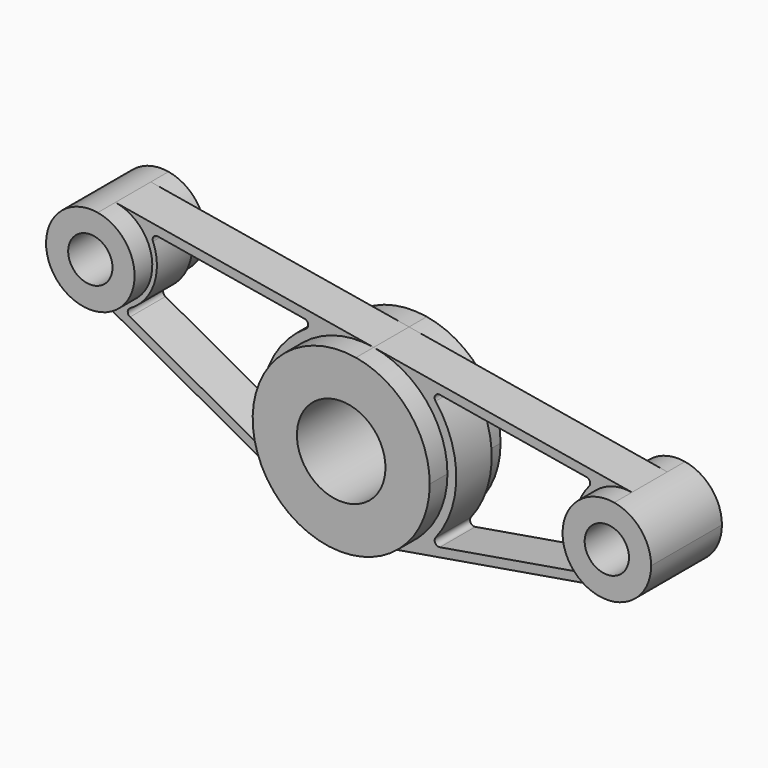
from build123d import *

# Parameters (mm, degrees)
F0_R     = 12.7
F1_DEPTH = 25.4
F0_R_2   = 6.35
F2_DEPTH = 25.4
F3_DEPTH = 6.35
F4_DEPTH = 6.35


with BuildPart() as f1:
    # F0 (on Front) → F1 (new body)
    with BuildSketch(Plane.XZ):
        with BuildLine():
            ThreePointArc((4.2333333333, -25.0447377485), (19.399570442, -16.3956294989), (25.4, 0))
            ThreePointArc((25.4, 0), (19.399570442, 16.3956294989), (4.2333333333, 25.0447377485))
            ThreePointArc((4.2333333333, 25.0447377485), (-23.9888888889, 8.3482459162), (-12.2296296296, -22.2619891097))
            ThreePointArc((-12.2296296296, -22.2619891097), (-4.2333333333, -25.0447377485), (4.2333333333, -25.0447377485))
        make_face()
        Circle(F0_R, mode=Mode.SUBTRACT)
    extrude(amount=F1_DEPTH)


with BuildPart() as f1b:
    # F0 (on Front) → F1, piece 2 (new body)
    with BuildSketch(Plane.XZ):
        with BuildLine():
            ThreePointArc((88.9, 0), (85.899785221, 8.1978147495), (78.3166666667, 12.5223688742))
            ThreePointArc((78.3166666667, 12.5223688742), (63.5, 0), (78.3166666667, -12.5223688742))
            ThreePointArc((78.3166666667, -12.5223688742), (85.899785221, -8.1978147495), (88.9, 0))
        make_face()
        with Locations((76.2, 0)):
            Circle(F0_R_2, mode=Mode.SUBTRACT)
    extrude(amount=F1_DEPTH)


with BuildPart() as f1c:
    # F0 (on Front) → F1, piece 3 (new body)
    with BuildSketch(Plane.XZ):
        with BuildLine():
            ThreePointArc((-59.2666666667, 25.0447377485), (-62.2668814457, 33.2425524979), (-69.85, 37.5671066227))
            ThreePointArc((-69.85, 37.5671066227), (-83.9611111111, 29.2188607065), (-78.0814814815, 13.9137431936))
            ThreePointArc((-78.0814814815, 13.9137431936), (-65.500143186, 14.1143180825), (-59.2666666667, 25.0447377485))
        make_face()
        with Locations((-71.9666666667, 25.0447377485)):
            Circle(F0_R_2, mode=Mode.SUBTRACT)
    extrude(amount=F1_DEPTH)


with BuildPart() as f2:
    # F0 (on Front) → F2 (new body)
    with BuildSketch(Plane.XZ):
        with BuildLine():
            ThreePointArc((4.2333333333, 25.0447377485), (19.399570442, 16.3956294989), (25.4, 0))
            ThreePointArc((25.4, 0), (19.399570442, -16.3956294989), (4.2333333333, -25.0447377485))
            Line((4.2333333333, -25.0447377485), (78.3166666667, -12.5223688742))
            ThreePointArc((78.3166666667, -12.5223688742), (63.5, 0), (78.3166666667, 12.5223688742))
            Line((78.3166666667, 12.5223688742), (4.2333333333, 25.0447377485))
        make_face()
        with BuildLine():
            ThreePointArc((21.9979949155, 17.2259054826), (21.9066318734, 18.6585361887), (23.209570442, 19.2611380738))
            Line((23.209570442, 19.2611380738), (65.296593229, 12.1471327984))
            ThreePointArc((65.296593229, 12.1471327984), (66.281659176, 11.320020659), (66.0391490163, 10.0568269947))
            ThreePointArc((66.0391490163, 10.0568269947), (62.2498184639, 0), (66.0391490163, -10.0568269947))
            ThreePointArc((66.0391490163, -10.0568269947), (66.281659176, -11.320020659), (65.296593229, -12.1471327984))
            Line((65.296593229, -12.1471327984), (23.209570442, -19.2611380738))
            ThreePointArc((23.209570442, -19.2611380738), (21.9066318734, -18.6585361887), (21.9979949155, -17.2259054826))
            ThreePointArc((21.9979949155, -17.2259054826), (27.94, 0), (21.9979949155, 17.2259054826))
        make_face(mode=Mode.SUBTRACT)
    extrude(amount=F2_DEPTH)


with BuildPart() as f2b:
    # F0 (on Front) → F2, piece 2 (new body)
    with BuildSketch(Plane.XZ):
        with BuildLine():
            ThreePointArc((-12.2296296296, -22.2619891097), (-23.9888888889, 8.3482459162), (4.2333333333, 25.0447377485))
            Line((4.2333333333, 25.0447377485), (-69.85, 37.5671066227))
            ThreePointArc((-69.85, 37.5671066227), (-62.2668814457, 33.2425524979), (-59.2666666667, 25.0447377485))
            ThreePointArc((-59.2666666667, 25.0447377485), (-65.500143186, 14.1143180825), (-78.0814814815, 13.9137431936))
            Line((-78.0814814815, 13.9137431936), (-12.2296296296, -22.2619891097))
        make_face()
        with BuildLine():
            ThreePointArc((-65.6756957857, 12.2070453043), (-58.7914952159, 20.4597162509), (-59.0649190228, 31.2032740721))
            ThreePointArc((-59.0649190228, 31.2032740721), (-58.8787811459, 32.4759963913), (-57.676593229, 32.9333951489))
            Line((-57.676593229, 32.9333951489), (-15.589570442, 25.8193898734))
            ThreePointArc((-15.589570442, 25.8193898734), (-14.5570751734, 24.8220276194), (-15.1142267996, 23.4990158996))
            ThreePointArc((-15.1142267996, 23.4990158996), (-26.3877777778, 9.1830705078), (-26.4375413742, -9.0388055676))
            ThreePointArc((-26.4375413742, -9.0388055676), (-26.8221183654, -10.4218740703), (-28.2507292818, -10.5627598216))
            Line((-28.2507292818, -10.5627598216), (-65.6614162035, 9.9888109742))
            ThreePointArc((-65.6614162035, 9.9888109742), (-66.3199084087, 11.0937351466), (-65.6756957857, 12.2070453043))
        make_face(mode=Mode.SUBTRACT)
    extrude(amount=F2_DEPTH)


with BuildPart() as f3_tool:
    # F0 (on Front) → F3 (new body)
    with BuildSketch(Plane.XZ):
        with BuildLine():
            ThreePointArc((4.2333333333, 25.0447377485), (19.399570442, 16.3956294989), (25.4, 0))
            ThreePointArc((25.4, 0), (19.399570442, -16.3956294989), (4.2333333333, -25.0447377485))
            Line((4.2333333333, -25.0447377485), (78.3166666667, -12.5223688742))
            ThreePointArc((78.3166666667, -12.5223688742), (63.5, 0), (78.3166666667, 12.5223688742))
            Line((78.3166666667, 12.5223688742), (4.2333333333, 25.0447377485))
        make_face()
        with BuildLine():
            ThreePointArc((21.9979949155, 17.2259054826), (21.9066318734, 18.6585361887), (23.209570442, 19.2611380738))
            Line((23.209570442, 19.2611380738), (65.296593229, 12.1471327984))
            ThreePointArc((65.296593229, 12.1471327984), (66.281659176, 11.320020659), (66.0391490163, 10.0568269947))
            ThreePointArc((66.0391490163, 10.0568269947), (62.2498184639, 0), (66.0391490163, -10.0568269947))
            ThreePointArc((66.0391490163, -10.0568269947), (66.281659176, -11.320020659), (65.296593229, -12.1471327984))
            Line((65.296593229, -12.1471327984), (23.209570442, -19.2611380738))
            ThreePointArc((23.209570442, -19.2611380738), (21.9066318734, -18.6585361887), (21.9979949155, -17.2259054826))
            ThreePointArc((21.9979949155, -17.2259054826), (27.94, 0), (21.9979949155, 17.2259054826))
        make_face(mode=Mode.SUBTRACT)
        with BuildLine():
            ThreePointArc((-12.2296296296, -22.2619891097), (-23.9888888889, 8.3482459162), (4.2333333333, 25.0447377485))
            Line((4.2333333333, 25.0447377485), (-69.85, 37.5671066227))
            ThreePointArc((-69.85, 37.5671066227), (-62.2668814457, 33.2425524979), (-59.2666666667, 25.0447377485))
            ThreePointArc((-59.2666666667, 25.0447377485), (-65.500143186, 14.1143180825), (-78.0814814815, 13.9137431936))
            Line((-78.0814814815, 13.9137431936), (-12.2296296296, -22.2619891097))
        make_face()
        with BuildLine():
            ThreePointArc((-65.6756957857, 12.2070453043), (-58.7914952159, 20.4597162509), (-59.0649190228, 31.2032740721))
            ThreePointArc((-59.0649190228, 31.2032740721), (-58.8787811459, 32.4759963913), (-57.676593229, 32.9333951489))
            Line((-57.676593229, 32.9333951489), (-15.589570442, 25.8193898734))
            ThreePointArc((-15.589570442, 25.8193898734), (-14.5570751734, 24.8220276194), (-15.1142267996, 23.4990158996))
            ThreePointArc((-15.1142267996, 23.4990158996), (-26.3877777778, 9.1830705078), (-26.4375413742, -9.0388055676))
            ThreePointArc((-26.4375413742, -9.0388055676), (-26.8221183654, -10.4218740703), (-28.2507292818, -10.5627598216))
            Line((-28.2507292818, -10.5627598216), (-65.6614162035, 9.9888109742))
            ThreePointArc((-65.6614162035, 9.9888109742), (-66.3199084087, 11.0937351466), (-65.6756957857, 12.2070453043))
        make_face(mode=Mode.SUBTRACT)
    extrude(amount=F3_DEPTH)


with BuildPart() as f2_1:
    add(f2.part)

    # F3: cut by f3_tool
    add(f3_tool.part, mode=Mode.SUBTRACT)


with BuildPart() as f2b_1:
    add(f2b.part)

    # F3: cut by f3_tool
    add(f3_tool.part, mode=Mode.SUBTRACT)


with BuildPart() as f4_tool:
    # F2_face (on face) → F4 (new body)
    with BuildSketch(Plane(origin=(-37.2218426901, -25.4, 12.9533759429), x_dir=(1, 0, 0), z_dir=(0, -1, 0))):
        with BuildLine():
            ThreePointArc((24.9922130605, -35.2153650526), (13.2329538012, -4.6051300267), (41.4551760235, 12.0913618056))
            Line((41.4551760235, 12.0913618056), (-32.6281573099, 24.6137306798))
            ThreePointArc((-32.6281573099, 24.6137306798), (-22.7503795321, 7.9172388475), (-40.8596387913, 0.9603672507))
            Line((-40.8596387913, 0.9603672507), (24.9922130605, -35.2153650526))
        make_face()
        with BuildLine():
            ThreePointArc((-28.4538530955, -0.7463306385), (-21.5696525258, 7.506340308), (-21.8430763327, 18.2498981293))
            ThreePointArc((-21.8430763327, 18.2498981293), (-21.6569384558, 19.5226204485), (-20.4547505388, 19.980019206))
            Line((-20.4547505388, 19.980019206), (21.6322722482, 12.8660139305))
            ThreePointArc((21.6322722482, 12.8660139305), (22.6647675168, 11.8686516766), (22.1076158906, 10.5456399568))
            ThreePointArc((22.1076158906, 10.5456399568), (10.8340649124, -3.7703054351), (10.784301316, -21.9921815105))
            ThreePointArc((10.784301316, -21.9921815105), (10.3997243248, -23.3752500132), (8.9711134084, -23.5161357645))
            Line((8.9711134084, -23.5161357645), (-28.4395735134, -2.9645649687))
            ThreePointArc((-28.4395735134, -2.9645649687), (-29.0980657186, -1.8596407963), (-28.4538530955, -0.7463306385))
        make_face(mode=Mode.SUBTRACT)
        with BuildLine():
            ThreePointArc((41.4551760235, 12.0913618056), (62.6218426901, -12.9533759429), (41.4551760235, -37.9981136913))
            Line((41.4551760235, -37.9981136913), (115.5385093568, -25.4757448171))
            ThreePointArc((115.5385093568, -25.4757448171), (100.7218426901, -12.9533759429), (115.5385093568, -0.4310070686))
            Line((115.5385093568, -0.4310070686), (41.4551760235, 12.0913618056))
        make_face()
        with BuildLine():
            ThreePointArc((60.4314131321, -32.2145140167), (59.1284745636, -31.6119121316), (59.2198376056, -30.1792814255))
            ThreePointArc((59.2198376056, -30.1792814255), (65.1618426901, -12.9533759429), (59.2198376056, 4.2725295398))
            ThreePointArc((59.2198376056, 4.2725295398), (59.1284745636, 5.7051602458), (60.4314131321, 6.3077621309))
            Line((60.4314131321, 6.3077621309), (102.5184359191, -0.8062431445))
            ThreePointArc((102.5184359191, -0.8062431445), (103.5035018661, -1.6333552839), (103.2609917064, -2.8965489482))
            ThreePointArc((103.2609917064, -2.8965489482), (99.471661154, -12.9533759429), (103.2609917064, -23.0102029376))
            ThreePointArc((103.2609917064, -23.0102029376), (103.5035018661, -24.2733966019), (102.5184359191, -25.1005087412))
            Line((102.5184359191, -25.1005087412), (60.4314131321, -32.2145140167))
        make_face(mode=Mode.SUBTRACT)
    extrude(amount=-F4_DEPTH)


with BuildPart() as f2_2:
    add(f2_1.part)

    # F4: cut by f4_tool
    add(f4_tool.part, mode=Mode.SUBTRACT)


with BuildPart() as f2b_2:
    add(f2b_1.part)

    # F4: cut by f4_tool
    add(f4_tool.part, mode=Mode.SUBTRACT)


solid = Compound([f1.part, f1b.part, f1c.part, f2_2.part, f2b_2.part])
